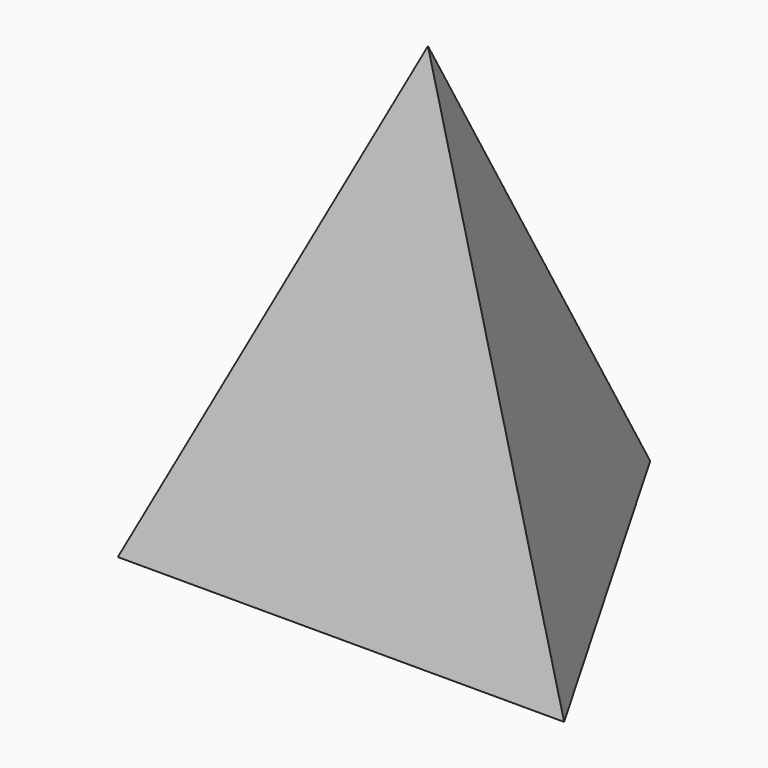
from build123d import *

# Parameters (mm, degrees)
F3_T = -1.524


with BuildPart() as f2:
    # F0 (on Top) → F2 section 0
    with BuildSketch(Plane.XY, mode=Mode.PRIVATE) as f2_s0:
        Polygon((-38.1041381436, -18.5593732185), (38.0958618564, -18.5593732185), (-0.0041380687, 47.4317625066), align=None)
    loft([f2_s0.sketch, Vertex(0, 0, 81.65)])

    # F3 (hollow: no face is removed)
    offset(amount=F3_T, mode=Mode.SUBTRACT)


solid = f2.part
